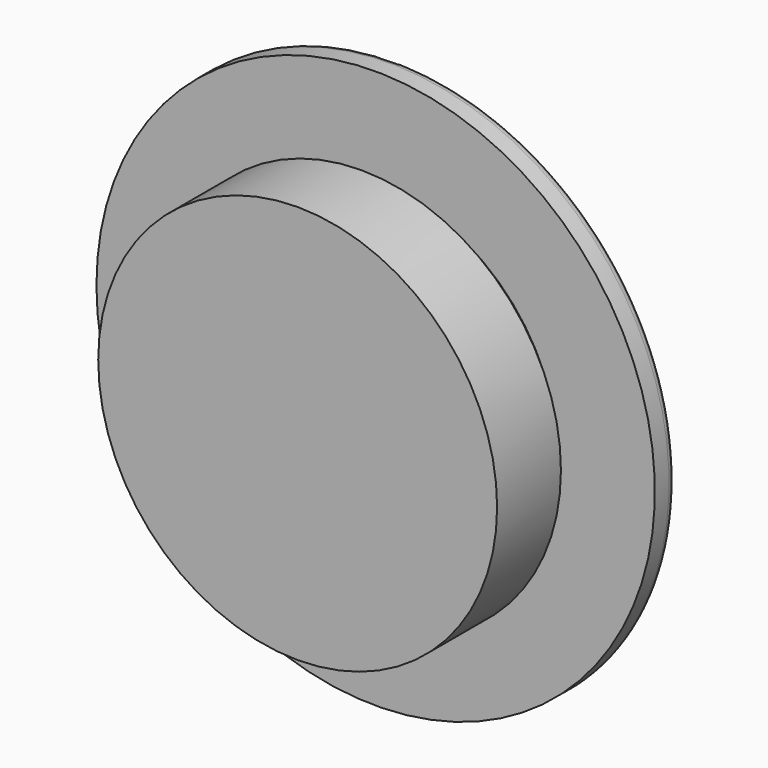
from build123d import *

# Parameters (mm, degrees)
F0_R     = 11.25
F1_DEPTH = 4.5
F2_R     = 10.25
F3_DEPTH = 1
F4_R     = 15.75
F5_DEPTH = 1.5
F7_DEPTH = 5
F8_R     = 0.5


with BuildPart() as f1:
    # F0 (on Front) → F1 (new body)
    with BuildSketch(Plane.XZ):
        Circle(F0_R)
    extrude(amount=F1_DEPTH)

    # F2 (on face) → F3 (join)
    with BuildSketch(Plane(origin=(0, 0, 0), x_dir=(-1, 0, 0), z_dir=(0, 1, 0))):
        Circle(F2_R)
    extrude(amount=F3_DEPTH)

    # F4 (on face) → F5 (join)
    with BuildSketch(Plane(origin=(0, 1, 0), x_dir=(-1, 0, 0), z_dir=(0, 1, 0))):
        Circle(F4_R)
    extrude(amount=F5_DEPTH)

    # F6 (on face) → F7 (cut)
    with BuildSketch(Plane(origin=(0, 2.5, 0), x_dir=(-1, 0, 0), z_dir=(0, 1, 0))):
        Polygon((4.875, 8.4437476869), (-4.875, 8.4437476869), (-9.75, 0), (-4.875, -8.4437476869), (4.875, -8.4437476869), (9.75, 0), align=None)
    extrude(amount=-F7_DEPTH, mode=Mode.SUBTRACT)

    # F8
    f8_edges = [f1.edges().sort_by_distance(p)[0] for p in [
        (15.75, 2.5, 0),
        (0, 2.5, 8.443748),
        (7.3125, 2.5, 4.221874),
        (7.3125, 2.5, -4.221874),
        (0, 2.5, -8.443748),
        (-7.3125, 2.5, -4.221874),
        (-7.3125, 2.5, 4.221874),
    ]]
    fillet(f8_edges, radius=F8_R)


solid = f1.part
